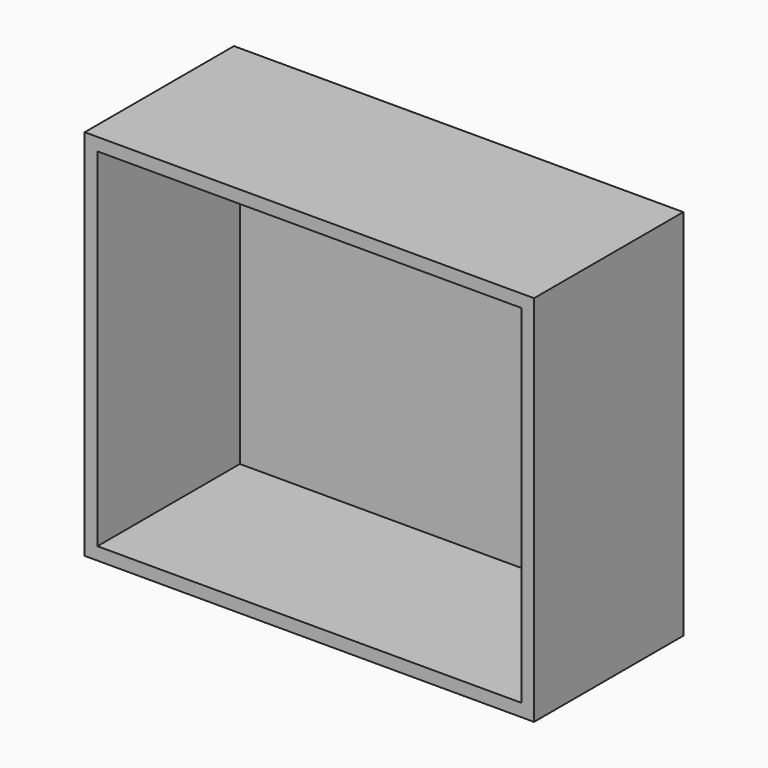
from build123d import *

# Parameters (mm, degrees)
F0_W     = 673.1
F0_H     = 558.8
F1_DEPTH = 139.7
F2_W     = 635
F2_H     = 520.7
F3_DEPTH = 266.7


with BuildPart() as f1:
    # F0 (on Front) → F1 (new body, symmetric)
    with BuildSketch(Plane.XZ):
        Rectangle(F0_W, F0_H)
    extrude(amount=F1_DEPTH, both=True)

    # F2 (on face) → F3 (cut)
    with BuildSketch(Plane.XZ.offset(139.7)):
        Rectangle(F2_W, F2_H)
    extrude(amount=-F3_DEPTH, mode=Mode.SUBTRACT)


solid = f1.part
